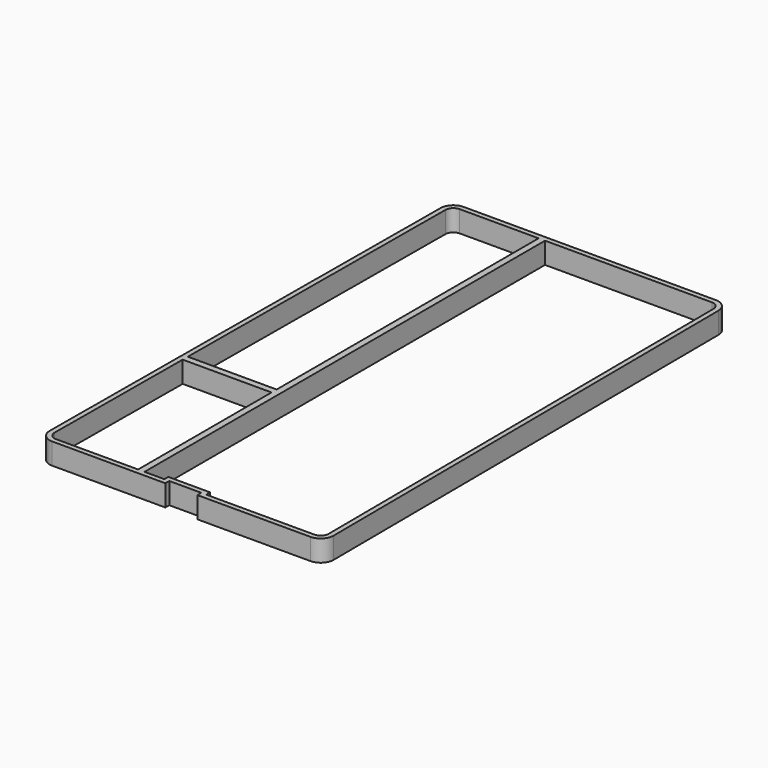
from build123d import *

# Parameters (mm, degrees)
F1_DEPTH = 10
F3_DEPTH = 10


with BuildPart() as f1:
    # F0 (on Top) → F1 (new body)
    with BuildSketch(Plane.XY):
        with BuildLine():
            ThreePointArc((-67.331712, -93.116795), (-65.587764, -97.383758), (-61.331831, -99.154451))
            Line((-61.331831, -99.154451), (-8.369606, -99.154451))
            Line((-8.369606, -99.154451), (-8.369606, -96.854451))
            Line((-8.369606, -96.854451), (6.630394, -96.854451))
            Line((6.630394, -96.854451), (6.630394, -99.154451))
            Line((6.630394, -99.154451), (59.592619, -99.154451))
            ThreePointArc((59.592619, -99.154451), (63.848553, -97.383758), (65.592501, -93.116795))
            Line((65.592501, -93.116795), (64.167815, 133.883205))
            ThreePointArc((64.167815, 133.883205), (62.397239, 138.101482), (58.167933, 139.845549))
            Line((58.167933, 139.845549), (-59.907144, 139.845549))
            ThreePointArc((-59.907144, 139.845549), (-64.136451, 138.101482), (-65.907026, 133.883205))
            Line((-65.907026, 133.883205), (-67.331712, -93.116795))
        make_face()
        with BuildLine():
            Line((-10.669606, -96.854451), (-61.331831, -96.854451))
            ThreePointArc((-61.331831, -96.854451), (-63.956323, -95.762523), (-65.031758, -93.13123))
            Line((-65.031758, -93.13123), (-63.607072, 133.86877))
            ThreePointArc((-63.607072, 133.86877), (-62.515217, 136.470041), (-59.907144, 137.545549))
            Line((-59.907144, 137.545549), (58.167933, 137.545549))
            ThreePointArc((58.167933, 137.545549), (60.776005, 136.470041), (61.86786, 133.86877))
            Line((61.86786, 133.86877), (63.292546, -93.13123))
            ThreePointArc((63.292546, -93.13123), (62.217111, -95.762523), (59.592619, -96.854451))
            Line((59.592619, -96.854451), (8.930394, -96.854451))
            Line((8.930394, -96.854451), (8.930394, -94.554451))
            Line((8.930394, -94.554451), (-10.669606, -94.554451))
            Line((-10.669606, -94.554451), (-10.669606, -96.854451))
        make_face(mode=Mode.SUBTRACT)
    extrude(amount=F1_DEPTH)

    # F2 (on face) → F3 (join)
    with BuildSketch(Plane.XY):
        Polygon((-64.565009, -18.762523), (-63.956323, -18.762523), (-22.956323, -18.762523), (-22.956323, -95.762523), (-22.956323, -96.854451), (-19.956323, -96.854451), (-19.956323, -18.762523), (-19.956323, 137.545549), (-22.956323, 137.545549), (-22.956323, -15.762523), (-64.565009, -15.762523), align=None)
    extrude(amount=F3_DEPTH)


solid = f1.part
